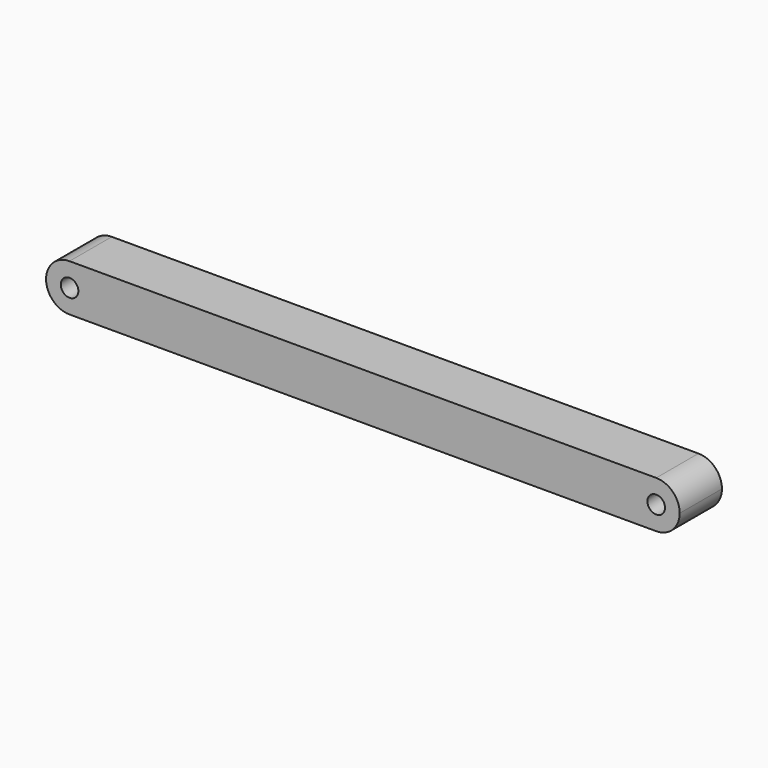
from build123d import *

# Parameters (mm, degrees)
F1_DEPTH = 228.6


with BuildPart() as f1:
    # F0 (on Front) → F1 (new body)
    with BuildSketch(Plane.XZ):
        with BuildLine():
            ThreePointArc((0, 203.2), (-101.6, 101.6), (0, 0))
            Line((0, 0), (0, 63.5))
            ThreePointArc((0, 63.5), (-38.1, 101.6), (0, 139.7))
            Line((0, 139.7), (0, 203.2))
        make_face()
        with BuildLine():
            Line((-2540, 0), (0, 0))
            ThreePointArc((0, 0), (-101.6, 101.6), (0, 203.2))
            Line((0, 203.2), (-2540, 203.2))
            ThreePointArc((-2540, 203.2), (-2468.1579510314, 173.4420489686), (-2438.4, 101.6))
            ThreePointArc((-2438.4, 101.6), (-2468.1579510314, 29.7579510314), (-2540, 0))
        make_face()
        with BuildLine():
            Line((0, 63.5), (0, 0))
            ThreePointArc((0, 0), (71.8420489686, 29.7579510314), (101.6, 101.6))
            ThreePointArc((101.6, 101.6), (71.8420489686, 173.4420489686), (0, 203.2))
            Line((0, 203.2), (0, 139.7))
            ThreePointArc((0, 139.7), (26.9407683632, 128.5407683632), (38.1, 101.6))
            ThreePointArc((38.1, 101.6), (26.9407683632, 74.6592316368), (0, 63.5))
        make_face()
        with BuildLine():
            ThreePointArc((-2540, 203.2), (-2641.6, 101.6), (-2540, 0))
            Line((-2540, 0), (-2540, 63.5))
            ThreePointArc((-2540, 63.5), (-2578.1, 101.6), (-2540, 139.7))
            Line((-2540, 139.7), (-2540, 203.2))
        make_face()
        with BuildLine():
            Line((-2540, 63.5), (-2540, 0))
            ThreePointArc((-2540, 0), (-2468.1579510314, 29.7579510314), (-2438.4, 101.6))
            ThreePointArc((-2438.4, 101.6), (-2468.1579510314, 173.4420489686), (-2540, 203.2))
            Line((-2540, 203.2), (-2540, 139.7))
            ThreePointArc((-2540, 139.7), (-2513.0592316368, 128.5407683632), (-2501.9, 101.6))
            ThreePointArc((-2501.9, 101.6), (-2513.0592316368, 74.6592316368), (-2540, 63.5))
        make_face()
    extrude(amount=F1_DEPTH)


solid = f1.part
